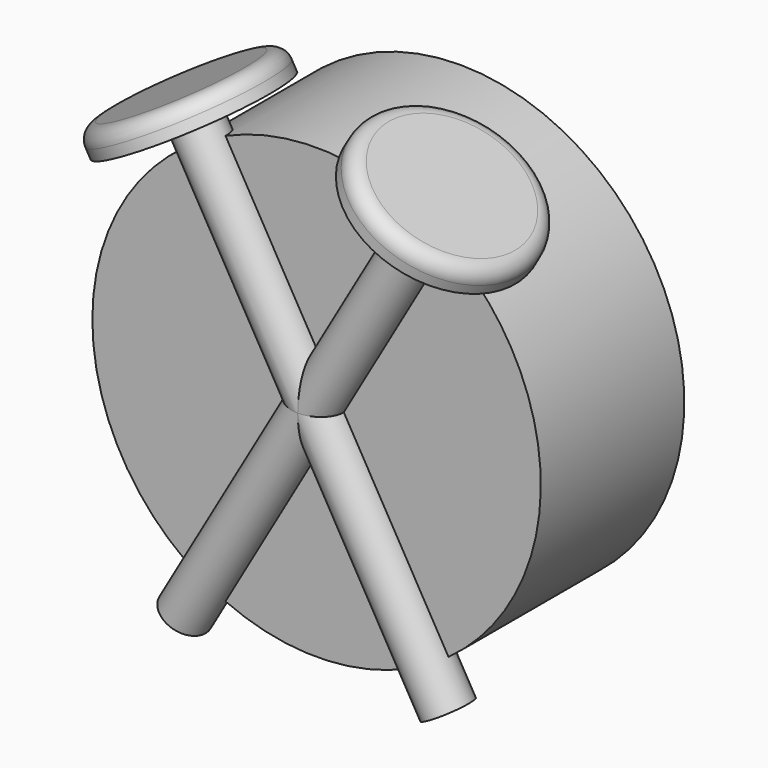
from build123d import *

# Parameters (mm, degrees)
F0_R     = 75
F1_DEPTH = 60
F3_W     = 7.8857280314
F3_H     = 170.0287312269
F5_ANGLE = 30
F7_R     = 5
F8_R     = 5


with BuildPart() as f1:
    # F0 (on Front) → F1 (new body)
    with BuildSketch(Plane.XZ):
        Circle(F0_R)
        Circle(F0_R)
    extrude(amount=F1_DEPTH)

    # F3 (on face) → F4 (revolve)
    with BuildSketch(Plane.XZ.offset(60)):
        Polygon((0, 90.5750542879), (0, 82.0537060499), (7.8857280314, 82.0537060499), (29.3278116733, 82.0537060499), (29.3278116733, 90.5750542879), align=None)
        with Locations((3.9428640157, -2.9606595635)):
            Rectangle(F3_W, F3_H)
    revolve(axis=Axis((0, -60, -2.9606595635), (0, 0, -1)))


with BuildPart() as f1_1:
    # F5: moved
    add(f1.part.rotate(Axis((0, 0, 0), (0, -1, 0)), F5_ANGLE))

    # F6: F1 across plane


with BuildPart() as f1_2:
    add(f1_1.part)
    add(f1_1.part.mirror(Plane.YZ))

    # F7
    f7_edges = [f1_2.edges().sort_by_distance(p)[0] for p in [
        (-70.686157, -60, 63.776392),
    ]]
    fillet(f7_edges, radius=F7_R)

    # F8
    f8_edges = [f1_2.edges().sort_by_distance(p)[0] for p in [
        (70.686157, -60, 63.776392),
    ]]
    fillet(f8_edges, radius=F8_R)


solid = f1_2.part
